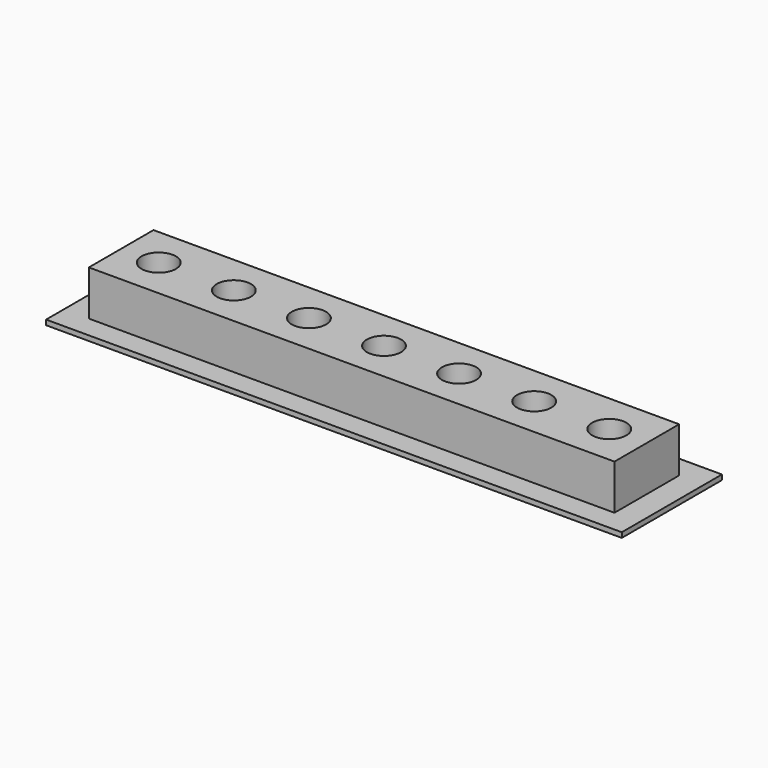
from build123d import *

# Parameters (mm, degrees)
F2_W     = 115
F2_H     = 25
F3_DEPTH = 1
F4_W     = 105
F4_H     = 16.148975119
F5_DEPTH = 9
F6_R     = 3.425
F7_DEPTH = 8


with BuildPart() as f3:
    # F2 (on Top) → F3 (new body)
    with BuildSketch(Plane.XY):
        Rectangle(F2_W, F2_H)
    extrude(amount=F3_DEPTH)

    # F4 (on face) → F5 (join)
    with BuildSketch(Plane.XY.offset(1)):
        Rectangle(F4_W, F4_H)
    extrude(amount=F5_DEPTH)

    # F6 (on face) → F7 (cut)
    with BuildSketch(Plane.XY.offset(10)):
        with Locations((-45, 0)):
            Circle(F6_R)
        with Locations((-30, 0)):
            Circle(F6_R)
        with Locations((-15, 0)):
            Circle(F6_R)
        Circle(F6_R)
        with Locations((15, 0)):
            Circle(F6_R)
        with Locations((30, 0)):
            Circle(F6_R)
        with Locations((45, 0)):
            Circle(F6_R)
    extrude(amount=-F7_DEPTH, mode=Mode.SUBTRACT)


solid = f3.part
